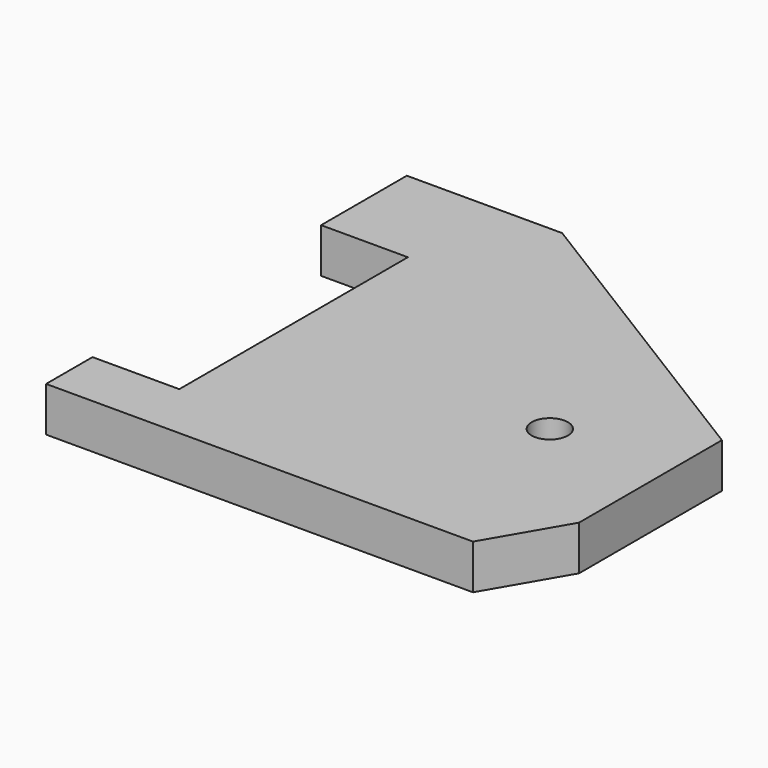
from build123d import *

# Parameters (mm, degrees)
SKETCH_R  = 2.5781
PAD_DEPTH = 6.35


with BuildPart() as part:
    # Sketch → Pad (new body)
    with BuildSketch(Plane.XY):
        Polygon((0, 0), (60.7187, 0), (67.0687, 10.922), (67.0687, 36.322), (22.098, 64.135), (0, 64.135), (0, 48.895), (12.3444, 48.895), (12.3444, 8.255), (0, 8.255), align=None)
        with Locations((50.4444, 26.50744)):
            Circle(SKETCH_R, mode=Mode.SUBTRACT)
    extrude(amount=PAD_DEPTH)


solid = part.part
